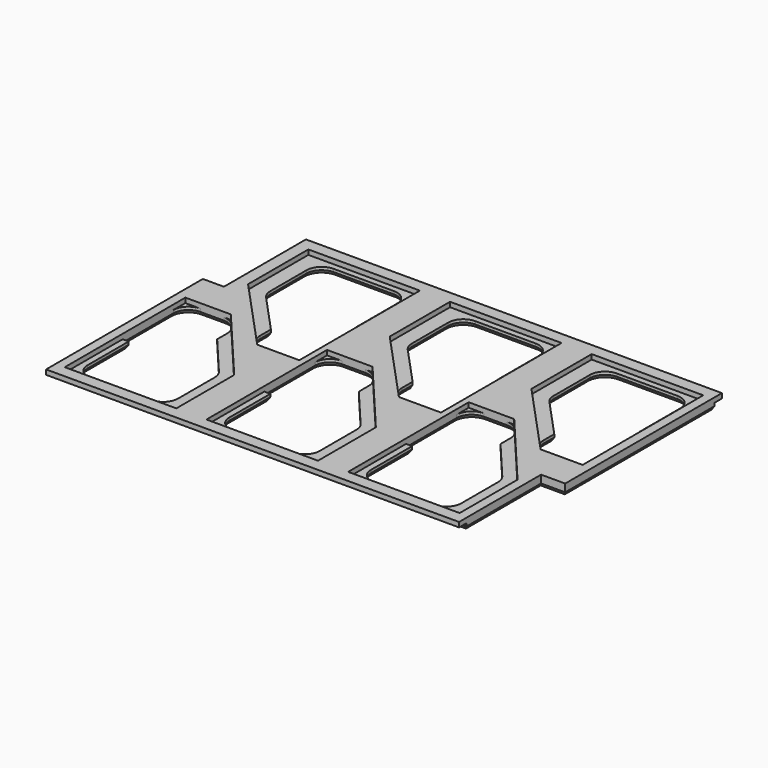
from build123d import *

# Parameters (mm, degrees)
F1_DEPTH  = 2.032
F3_DEPTH  = 2.54
F5_DEPTH  = 25.4
F8_W      = 175.26
F8_H      = 3.81
F8_W_2    = 173.99
F9_DEPTH  = 2.54
F10_SIZE2 = 1.3198227154
F10_SIZE  = 0.762


with BuildPart() as f1:
    # F0 (on Top) → F1 (new body)
    with BuildSketch(Plane.XY):
        Polygon((93.98, 62.865), (-81.28, 62.865), (-81.28, 19.685), (-90.17, 19.685), (-90.17, -62.865), (83.82, -62.865), (83.82, -19.685), (93.98, -19.685), align=None)
        Polygon((-39.37, -27.305), (-39.37, -57.785), (-86.36, -57.785), (-86.36, 5.715), (-67.1943059213, 5.715), align=None, mode=Mode.SUBTRACT)
        Polygon((20.32, -57.785), (-26.67, -57.785), (-26.67, 5.715), (-7.5043059213, 5.715), (20.32, -27.305), align=None, mode=Mode.SUBTRACT)
        Polygon((80.01, -57.785), (33.02, -57.785), (33.02, 5.715), (52.1856940787, 5.715), (80.01, -27.305), align=None, mode=Mode.SUBTRACT)
        Polygon((-46.9348347006, -5.715), (-76.2, 26.035), (-76.2, 57.785), (-29.21, 57.785), (-29.21, -5.715), align=None, mode=Mode.SUBTRACT)
        Polygon((12.7551652994, -5.715), (-16.51, 26.035), (-16.51, 57.785), (30.48, 57.785), (30.48, -5.715), align=None, mode=Mode.SUBTRACT)
        Polygon((43.18, 26.035), (43.18, 57.785), (90.17, 57.785), (90.17, -5.715), (72.4451652994, -5.715), align=None, mode=Mode.SUBTRACT)
    extrude(amount=F1_DEPTH)

    # F2 (on face) → F3 (join)
    with BuildSketch(Plane(origin=(0, 0, 0), x_dir=(1, 0, 0), z_dir=(0, 0, -1))):
        Polygon((83.82, 62.865), (-81.28, 62.865), (-90.17, 62.865), (-90.17, -19.685), (-81.28, -19.685), (-81.28, -62.865), (93.98, -62.865), (93.98, 19.685), (83.82, 19.685), align=None)
    extrude(amount=F3_DEPTH)

    # F4 (on face) → F5 (cut)
    with BuildSketch(Plane.XY):
        with BuildLine():
            ThreePointArc((-63.5, 55.245), (-67.9901280605, 53.3851280605), (-69.85, 48.895))
            Line((-69.85, 48.895), (-69.85, 29.7850987542))
            ThreePointArc((-69.85, 29.7850987542), (-69.4148709647, 27.4749469257), (-68.1691176471, 25.4813979749))
            Line((-68.1691176471, 25.4813979749), (-52.6351968827, 8.6285294118))
            Line((-52.6351968827, 8.6285294118), (-52.6351968827, 2.9494649599))
            ThreePointArc((-52.6351968827, 2.9494649599), (-52.2000678474, 0.6393131314), (-50.9543145298, -1.3542358194))
            Line((-50.9543145298, -1.3542358194), (-48.8209854076, -3.6687007793))
            ThreePointArc((-48.8209854076, -3.6687007793), (-46.700789106, -5.1809693925), (-44.1518677605, -5.715))
            Line((-44.1518677605, -5.715), (-35.56, -5.715))
            ThreePointArc((-35.56, -5.715), (-31.0698719395, -3.8551280605), (-29.21, 0.635))
            Line((-29.21, 0.635), (-29.21, 27.305))
            Line((-29.21, 27.305), (-31.75, 27.305))
            Line((-31.75, 27.305), (-31.75, 48.895))
            ThreePointArc((-31.75, 48.895), (-33.6098719395, 53.3851280605), (-38.1, 55.245))
            Line((-38.1, 55.245), (-63.5, 55.245))
        make_face()
        with BuildLine():
            ThreePointArc((-3.81, 55.245), (-8.3001280605, 53.3851280605), (-10.16, 48.895))
            Line((-10.16, 48.895), (-10.16, 29.7850987542))
            ThreePointArc((-10.16, 29.7850987542), (-9.7248709647, 27.4749469257), (-8.4791176471, 25.4813979749))
            Line((-8.4791176471, 25.4813979749), (7.0548031173, 8.6285294118))
            Line((7.0548031173, 8.6285294118), (7.0548031173, 2.9494649599))
            ThreePointArc((7.0548031173, 2.9494649599), (7.4899321526, 0.6393131314), (8.7356854702, -1.3542358194))
            Line((8.7356854702, -1.3542358194), (10.8690145924, -3.6687007793))
            ThreePointArc((10.8690145924, -3.6687007793), (12.989210894, -5.1809693925), (15.5381322395, -5.715))
            Line((15.5381322395, -5.715), (24.13, -5.715))
            ThreePointArc((24.13, -5.715), (28.6201280605, -3.8551280605), (30.48, 0.635))
            Line((30.48, 0.635), (30.48, 27.305))
            Line((30.48, 27.305), (27.94, 27.305))
            Line((27.94, 27.305), (27.94, 48.895))
            ThreePointArc((27.94, 48.895), (26.0801280605, 53.3851280605), (21.59, 55.245))
            Line((21.59, 55.245), (-3.81, 55.245))
        make_face()
        with BuildLine():
            ThreePointArc((55.88, 55.245), (51.3898719395, 53.3851280605), (49.53, 48.895))
            Line((49.53, 48.895), (49.53, 29.7850987542))
            ThreePointArc((49.53, 29.7850987542), (49.9651290353, 27.4749469257), (51.2108823529, 25.4813979749))
            Line((51.2108823529, 25.4813979749), (66.7448031173, 8.6285294118))
            Line((66.7448031173, 8.6285294118), (66.7448031173, 2.9494649599))
            ThreePointArc((66.7448031173, 2.9494649599), (67.1799321526, 0.6393131314), (68.4256854702, -1.3542358194))
            Line((68.4256854702, -1.3542358194), (70.5590145924, -3.6687007793))
            ThreePointArc((70.5590145924, -3.6687007793), (72.679210894, -5.1809693925), (75.2281322395, -5.715))
            Line((75.2281322395, -5.715), (83.82, -5.715))
            ThreePointArc((83.82, -5.715), (88.3101280605, -3.8551280605), (90.17, 0.635))
            Line((90.17, 0.635), (90.17, 27.305))
            Line((90.17, 27.305), (87.63, 27.305))
            Line((87.63, 27.305), (87.63, 48.895))
            ThreePointArc((87.63, 48.895), (85.7701280605, 53.3851280605), (81.28, 55.245))
            Line((81.28, 55.245), (55.88, 55.245))
        make_face()
        with BuildLine():
            ThreePointArc((-83.82, -48.895), (-81.9601280605, -53.3851280605), (-77.47, -55.245))
            Line((-77.47, -55.245), (-52.07, -55.245))
            ThreePointArc((-52.07, -55.245), (-47.5798719395, -53.3851280605), (-45.72, -48.895))
            Line((-45.72, -48.895), (-45.72, -29.6236921601))
            ThreePointArc((-45.72, -29.6236921601), (-46.1052136274, -27.4456601288), (-47.2141176471, -25.5318824658))
            Line((-47.2141176471, -25.5318824658), (-62.0872387772, -7.8814705882))
            Line((-62.0872387772, -7.8814705882), (-62.0872387772, -2.664413228))
            ThreePointArc((-62.0872387772, -2.664413228), (-62.4724524046, -0.4863811967), (-63.5813564243, 1.4273964663))
            Line((-63.5813564243, 1.4273964663), (-65.2914416604, 3.4568096943))
            ThreePointArc((-65.2914416604, 3.4568096943), (-67.4696843399, 5.1228421114), (-70.1473240133, 5.715))
            Line((-70.1473240133, 5.715), (-80.01, 5.715))
            ThreePointArc((-80.01, 5.715), (-84.5001280605, 3.8551280605), (-86.36, -0.635))
            Line((-86.36, -0.635), (-86.36, -27.305))
            Line((-86.36, -27.305), (-83.82, -27.305))
            Line((-83.82, -27.305), (-83.82, -48.895))
        make_face()
        with BuildLine():
            ThreePointArc((13.97, -29.6236921601), (13.5847863726, -27.4456601288), (12.4758823529, -25.5318824658))
            Line((12.4758823529, -25.5318824658), (-2.3972387772, -7.8814705882))
            Line((-2.3972387772, -7.8814705882), (-2.3972387772, -2.664413228))
            ThreePointArc((-2.3972387772, -2.664413228), (-2.7824524046, -0.4863811967), (-3.8913564243, 1.4273964663))
            Line((-3.8913564243, 1.4273964663), (-5.6014416604, 3.4568096943))
            ThreePointArc((-5.6014416604, 3.4568096943), (-7.7796843399, 5.1228421114), (-10.4573240133, 5.715))
            Line((-10.4573240133, 5.715), (-20.32, 5.715))
            ThreePointArc((-20.32, 5.715), (-24.8101280605, 3.8551280605), (-26.67, -0.635))
            Line((-26.67, -0.635), (-26.67, -27.305))
            Line((-26.67, -27.305), (-24.13, -27.305))
            Line((-24.13, -27.305), (-24.13, -48.895))
            ThreePointArc((-24.13, -48.895), (-22.2701280605, -53.3851280605), (-17.78, -55.245))
            Line((-17.78, -55.245), (7.62, -55.245))
            ThreePointArc((7.62, -55.245), (12.1101280605, -53.3851280605), (13.97, -48.895))
            Line((13.97, -48.895), (13.97, -29.6236921601))
        make_face()
        with BuildLine():
            ThreePointArc((57.2927612228, -2.664413228), (56.9075475954, -0.4863811967), (55.7986435757, 1.4273964663))
            Line((55.7986435757, 1.4273964663), (54.0885583396, 3.4568096943))
            ThreePointArc((54.0885583396, 3.4568096943), (51.9103156601, 5.1228421114), (49.2326759867, 5.715))
            Line((49.2326759867, 5.715), (39.37, 5.715))
            ThreePointArc((39.37, 5.715), (34.8798719395, 3.8551280605), (33.02, -0.635))
            Line((33.02, -0.635), (33.02, -27.305))
            Line((33.02, -27.305), (35.56, -27.305))
            Line((35.56, -27.305), (35.56, -48.895))
            ThreePointArc((35.56, -48.895), (37.4198719395, -53.3851280605), (41.91, -55.245))
            Line((41.91, -55.245), (67.31, -55.245))
            ThreePointArc((67.31, -55.245), (71.8001280605, -53.3851280605), (73.66, -48.895))
            Line((73.66, -48.895), (73.66, -29.6236921601))
            ThreePointArc((73.66, -29.6236921601), (73.2747863726, -27.4456601288), (72.1658823529, -25.5318824658))
            Line((72.1658823529, -25.5318824658), (57.2927612228, -7.8814705882))
            Line((57.2927612228, -7.8814705882), (57.2927612228, -2.664413228))
        make_face()
    extrude(amount=-F5_DEPTH, mode=Mode.SUBTRACT)

    # F8 (on face) → F9 (cut)
    with BuildSketch(Plane(origin=(0, 0, -2.54), x_dir=(1, 0, 0), z_dir=(0, 0, -1))):
        with Locations((6.35, -60.96)):
            Rectangle(F8_W, F8_H)
        with Locations((-3.175, 60.96)):
            Rectangle(F8_W_2, F8_H)
    extrude(amount=-F9_DEPTH, mode=Mode.SUBTRACT)

    # F10
    f10_edges = [f1.edges().sort_by_distance(p)[0] for p in [
        (-3.175, -59.055, -2.54),
        (83.82, -39.37, -2.54),
        (88.9, -19.685, -2.54),
        (93.98, 19.685, -2.54),
        (6.35, 59.055, -2.54),
        (-81.28, 39.37, -2.54),
        (-85.725, 19.685, -2.54),
        (-90.17, -19.685, -2.54),
        (-50.8, 55.245, -2.54),
        (-67.990128, 53.385128, -2.54),
        (-33.609872, 53.385128, -2.54),
        (-69.85, 39.340049, -2.54),
        (-31.75, 38.1, -2.54),
        (-69.414871, 27.474947, -2.54),
        (-30.48, 27.305, -2.54),
        (-60.402157, 17.054964, -2.54),
        (-29.21, 13.97, -2.54),
        (-52.635197, 5.788997, -2.54),
        (-31.069872, -3.855128, -2.54),
        (-52.200068, 0.639313, -2.54),
        (-39.855934, -5.715, -2.54),
        (-49.88765, -2.511468, -2.54),
        (-46.700789, -5.180969, -2.54),
        (8.89, 55.245, -2.54),
        (-8.300128, 53.385128, -2.54),
        (26.080128, 53.385128, -2.54),
        (-10.16, 39.340049, -2.54),
        (27.94, 38.1, -2.54),
        (-9.724871, 27.474947, -2.54),
        (29.21, 27.305, -2.54),
        (-0.712157, 17.054964, -2.54),
        (30.48, 13.97, -2.54),
        (7.054803, 5.788997, -2.54),
        (28.620128, -3.855128, -2.54),
        (7.489932, 0.639313, -2.54),
        (19.834066, -5.715, -2.54),
        (9.80235, -2.511468, -2.54),
        (12.989211, -5.180969, -2.54),
        (68.58, 55.245, -2.54),
        (51.389872, 53.385128, -2.54),
        (85.770128, 53.385128, -2.54),
        (49.53, 39.340049, -2.54),
        (87.63, 38.1, -2.54),
        (49.965129, 27.474947, -2.54),
        (88.9, 27.305, -2.54),
        (58.977843, 17.054964, -2.54),
        (90.17, 13.97, -2.54),
        (66.744803, 5.788997, -2.54),
        (88.310128, -3.855128, -2.54),
        (67.179932, 0.639313, -2.54),
        (79.524066, -5.715, -2.54),
        (69.49235, -2.511468, -2.54),
        (72.679211, -5.180969, -2.54),
        (-86.36, -13.97, -2.54),
        (-85.09, -27.305, -2.54),
        (-84.500128, 3.855128, -2.54),
        (-83.82, -38.1, -2.54),
        (-75.078662, 5.715, -2.54),
        (-81.960128, -53.385128, -2.54),
        (-67.469684, 5.122842, -2.54),
        (-64.77, -55.245, -2.54),
        (-64.436399, 2.442103, -2.54),
        (-47.579872, -53.385128, -2.54),
        (-62.472452, -0.486381, -2.54),
        (-45.72, -39.259346, -2.54),
        (-62.087239, -5.272942, -2.54),
        (-46.105214, -27.44566, -2.54),
        (-54.650678, -16.706677, -2.54),
        (-5.08, -55.245, -2.54),
        (12.110128, -53.385128, -2.54),
        (-22.270128, -53.385128, -2.54),
        (13.97, -39.259346, -2.54),
        (-24.13, -38.1, -2.54),
        (13.584786, -27.44566, -2.54),
        (-25.4, -27.305, -2.54),
        (5.039322, -16.706677, -2.54),
        (-26.67, -13.97, -2.54),
        (-2.397239, -5.272942, -2.54),
        (-24.810128, 3.855128, -2.54),
        (-2.782452, -0.486381, -2.54),
        (-15.388662, 5.715, -2.54),
        (-4.746399, 2.442103, -2.54),
        (-7.779684, 5.122842, -2.54),
        (57.292761, -5.272942, -2.54),
        (56.907548, -0.486381, -2.54),
        (64.729322, -16.706677, -2.54),
        (54.943601, 2.442103, -2.54),
        (73.274786, -27.44566, -2.54),
        (51.910316, 5.122842, -2.54),
        (73.66, -39.259346, -2.54),
        (44.301338, 5.715, -2.54),
        (71.800128, -53.385128, -2.54),
        (34.879872, 3.855128, -2.54),
        (54.61, -55.245, -2.54),
        (33.02, -13.97, -2.54),
        (37.419872, -53.385128, -2.54),
        (34.29, -27.305, -2.54),
        (35.56, -38.1, -2.54),
    ]]
    f10_side = f1.faces().sort_by_distance((1.480514, 0.286389, -2.54))[0]
    chamfer(f10_edges, length=F10_SIZE, length2=F10_SIZE2, reference=f10_side)


solid = f1.part
